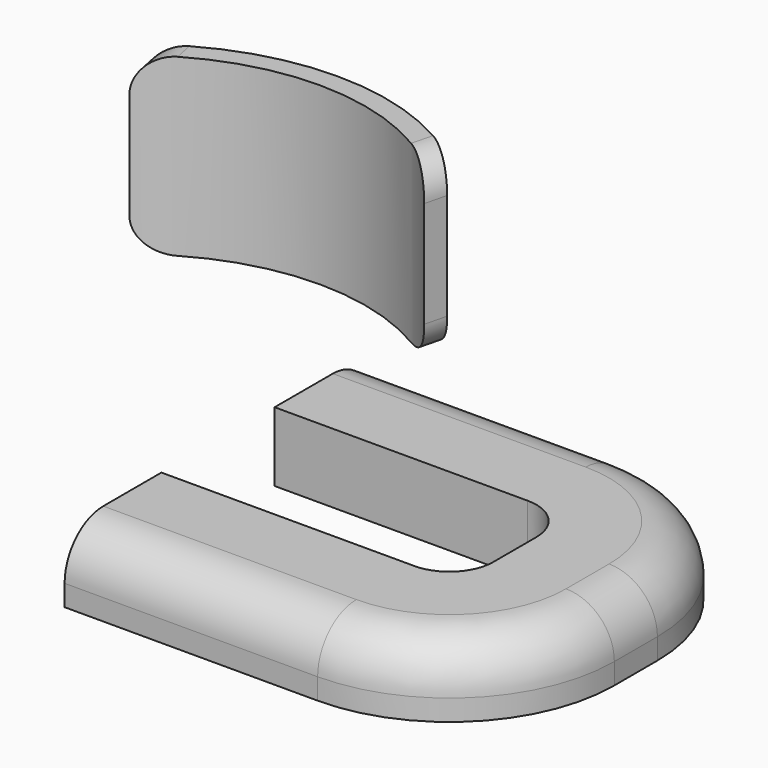
from build123d import *

# Parameters (mm, degrees)
F4_DEPTH = 25.4
F5_R     = 5
F6_R     = 5
F7_R     = 5
F8_R     = 5


with BuildPart() as f2:
    # F2: sweep along a path in F1
    with BuildLine(Plane.XY) as f2_path:
        Line((0, 0), (36.670453, 0))
        ThreePointArc((36.670453, 0), (41.160581, -1.859872), (43.020453, -6.35))
        Line((43.020453, -6.35), (43.020453, -14.155076))
        ThreePointArc((43.020453, -14.155076), (41.160581, -18.645204), (36.670453, -20.505076))
        Line((36.670453, -20.505076), (0, -20.505076))
    # F0 (on Right) → F2 (sweep)
    with BuildSketch(Plane.YZ):
        with BuildLine():
            Line((0, 10.051508), (0, 0))
            Line((0, 0), (17.53653, 0))
            Line((17.53653, 0), (17.53653, 3.051508))
            ThreePointArc((17.53653, 3.051508), (15.486278, 8.001255), (10.53653, 10.051508))
            Line((10.53653, 10.051508), (0, 10.051508))
        make_face()
    sweep(path=f2_path.line)


with BuildPart() as f4:
    # F3 (on Top) → F4 (new body)
    with BuildSketch(Plane.XY):
        with BuildLine():
            Line((-5.540201, 34.032665), (-4.748743, 37.198495))
            ThreePointArc((-4.748743, 37.198495), (-26.844994, 44.765678), (-48.872489, 37.00063))
            Line((-48.872489, 37.00063), (-48.278898, 34.032665))
            ThreePointArc((-48.278898, 34.032665), (-26.909549, 41.797038), (-5.540201, 34.032665))
        make_face()
    extrude(amount=F4_DEPTH)

    # F5
    f5_edges = [f4.edges().sort_by_distance(p)[0] for p in [
        (-48.575694, 35.516648, 0),
    ]]
    fillet(f5_edges, radius=F5_R)

    # F6
    f6_edges = [f4.edges().sort_by_distance(p)[0] for p in [
        (-5.144472, 35.61558, 0),
    ]]
    fillet(f6_edges, radius=F6_R)

    # F7
    f7_edges = [f4.edges().sort_by_distance(p)[0] for p in [
        (-5.144472, 35.61558, 25.4),
    ]]
    fillet(f7_edges, radius=F7_R)

    # F8
    f8_edges = [f4.edges().sort_by_distance(p)[0] for p in [
        (-48.575694, 35.516648, 25.4),
    ]]
    fillet(f8_edges, radius=F8_R)


solid = Compound([f2.part, f4.part])
